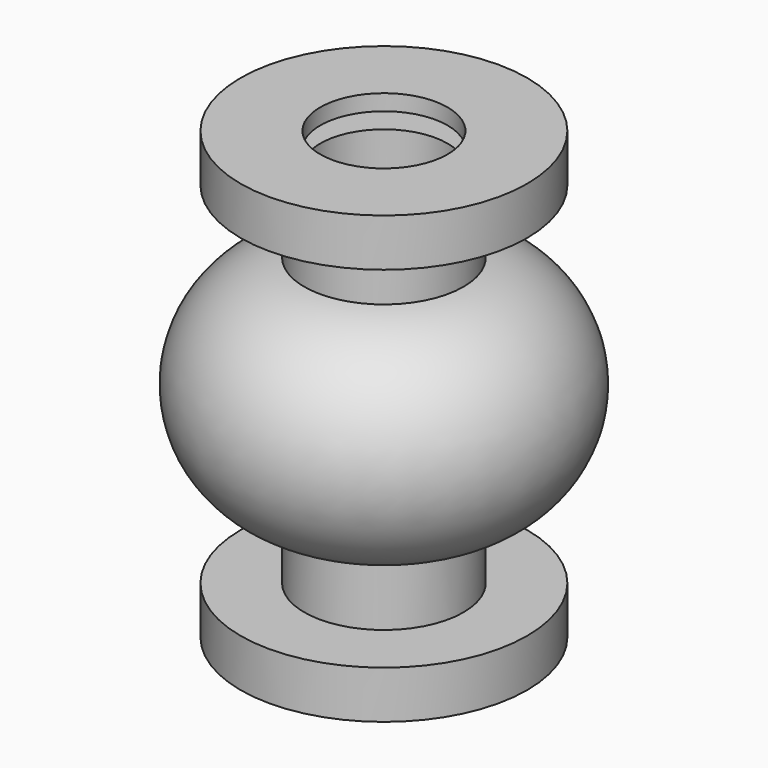
from build123d import *


with BuildPart() as f1:
    # F0 (on Front) → F1 (revolve)
    with BuildSketch(Plane.XZ):
        with BuildLine():
            Line((2, 0.5), (2, 0))
            Line((2, 0), (4.5, 0))
            Line((4.5, 0), (4.5, 1.5))
            Line((4.5, 1.5), (2.5, 1.5))
            Line((2.5, 1.5), (2.5, 3.5))
            ThreePointArc((2.5, 3.5), (5.5, 7), (2.5, 10.5))
            Line((2.5, 10.5), (2.5, 12.5))
            Line((2.5, 12.5), (4.5, 12.5))
            Line((4.5, 12.5), (4.5, 14))
            Line((4.5, 14), (2, 14))
            Line((2, 14), (2, 13.5))
            Line((2, 13.5), (4, 13.5))
            Line((4, 13.5), (4, 13))
            Line((4, 13), (2, 13))
            Line((2, 13), (2, 10.041382))
            ThreePointArc((2, 10.041382), (5, 7), (2, 3.958618))
            Line((2, 3.958618), (2, 1))
            Line((2, 1), (4, 1))
            Line((4, 1), (4, 0.5))
            Line((4, 0.5), (2, 0.5))
        make_face()
    revolve(axis=Axis((0, 0, 7), (0, 0, 1)))


solid = f1.part
